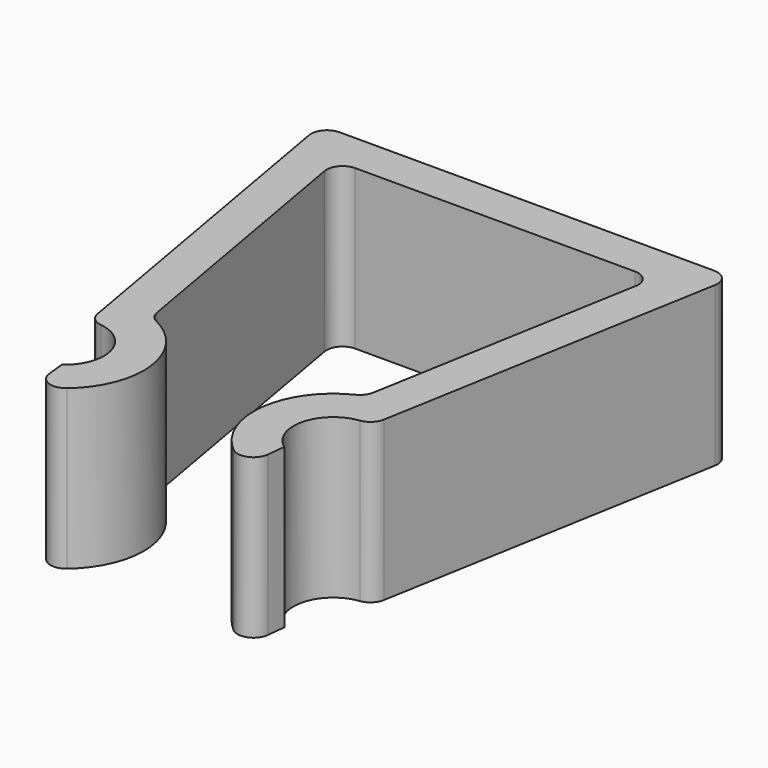
from build123d import *

# Parameters (mm, degrees)
F1_DEPTH = 10
F2_R     = 1


with BuildPart() as f1:
    # F0 (on Top) → F1 (new body)
    with BuildSketch(Plane.XY):
        with BuildLine():
            Line((-10, 24.893011), (0, 24.893011))
            Line((0, 24.893011), (10, 24.893011))
            Line((10, 24.893011), (6.71487, 6.262112))
            ThreePointArc((6.71487, 6.262112), (3.462721, 1.577561), (6.71487, -3.106989))
            Line((6.71487, -3.106989), (7.001372, -0.450851))
            ThreePointArc((7.001372, -0.450851), (6.152804, 2.533741), (8.862567, 4.045379))
            Line((8.862567, 4.045379), (12.979384, 27.393011))
            Line((12.979384, 27.393011), (0, 27.393011))
            Line((0, 27.393011), (-12.979384, 27.393011))
            Line((-12.979384, 27.393011), (-8.862567, 4.045379))
            ThreePointArc((-8.862567, 4.045379), (-6.152804, 2.533741), (-7.001372, -0.450851))
            Line((-7.001372, -0.450851), (-6.71487, -3.106989))
            ThreePointArc((-6.71487, -3.106989), (-3.462721, 1.577561), (-6.71487, 6.262112))
            Line((-6.71487, 6.262112), (-10, 24.893011))
        make_face()
    extrude(amount=F1_DEPTH)

    # F2
    f2_edges = [f1.edges().sort_by_distance(p)[0] for p in [
        (-6.71487, -3.106989, 5),
        (6.71487, -3.106989, 5),
        (-12.979384, 27.393011, 5),
        (12.979384, 27.393011, 5),
        (-10, 24.893011, 5),
        (10, 24.893011, 5),
        (-6.71487, 6.262112, 5),
        (6.71487, 6.262112, 5),
        (-8.862567, 4.045379, 5),
        (8.862567, 4.045379, 5),
    ]]
    fillet(f2_edges, radius=F2_R)


solid = f1.part
